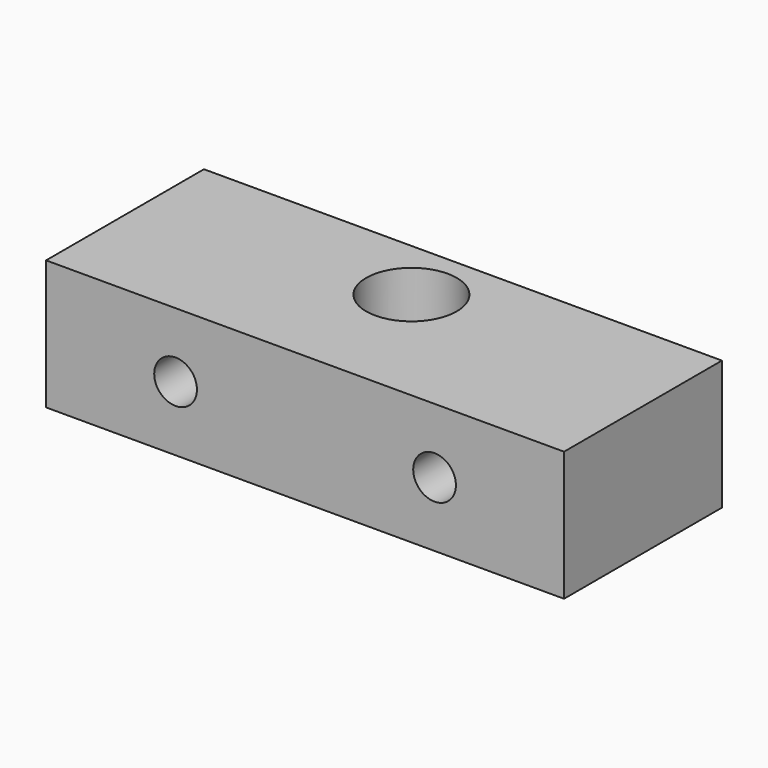
from build123d import *

# Parameters (mm, degrees)
F1_DEPTH = 10
F2_D     = 6
F4_D     = 3.3
F4_DEPTH = 15.5
F4_TIP   = 0.9914200214
F6_D     = 3.3
F6_DEPTH = 20
F6_TIP   = 0.9914200214
F9_D     = 7
F9_DEPTH = 7
F9_TIP   = 2.1030121666


with BuildPart() as f1:
    # F0 (on Top) → F1 (new body)
    with BuildSketch(Plane.XY):
        Polygon((-20, 10.239787288), (-20, -5), (20, -5), (20, 10.239787288), (12, 10.239787288), (10.6523660943, 10.239787288), (-9.4155045226, 10.239787288), (-12, 10.239787288), align=None)
    extrude(amount=F1_DEPTH)

    # F2 (through all)
    with Locations(Plane(origin=(0, 0, 0), x_dir=(1, 0, 0), z_dir=(0, 0, -1))):
        with Locations((0, -5.239787288)):
            Hole(F2_D / 2)

    # F4
    with Locations(Plane.XZ.offset(5)):
        with Locations((-10, 5), (10, 5)):
            Hole(F4_D / 2, depth=F4_DEPTH)
            with Locations((0, 0, -(F4_DEPTH + F4_TIP / 2))):  # 118° drill point
                Cone(0, F4_D / 2, F4_TIP, mode=Mode.SUBTRACT)

    # F6
    with Locations(Plane(origin=(-20, 0, 0), x_dir=(0, -1, 0), z_dir=(-1, 0, 0))):
        with Locations((-5.239787288, 5)):
            Hole(F6_D / 2, depth=F6_DEPTH)
            with Locations((0, 0, -(F6_DEPTH + F6_TIP / 2))):  # 118° drill point
                Cone(0, F6_D / 2, F6_TIP, mode=Mode.SUBTRACT)

    # F9
    with Locations(Plane.XY.offset(10)):
        with Locations((0, 5.2691735327)):
            Hole(F9_D / 2, depth=F9_DEPTH)
            with Locations((0, 0, -(F9_DEPTH + F9_TIP / 2))):  # 118° drill point
                Cone(0, F9_D / 2, F9_TIP, mode=Mode.SUBTRACT)


solid = f1.part
